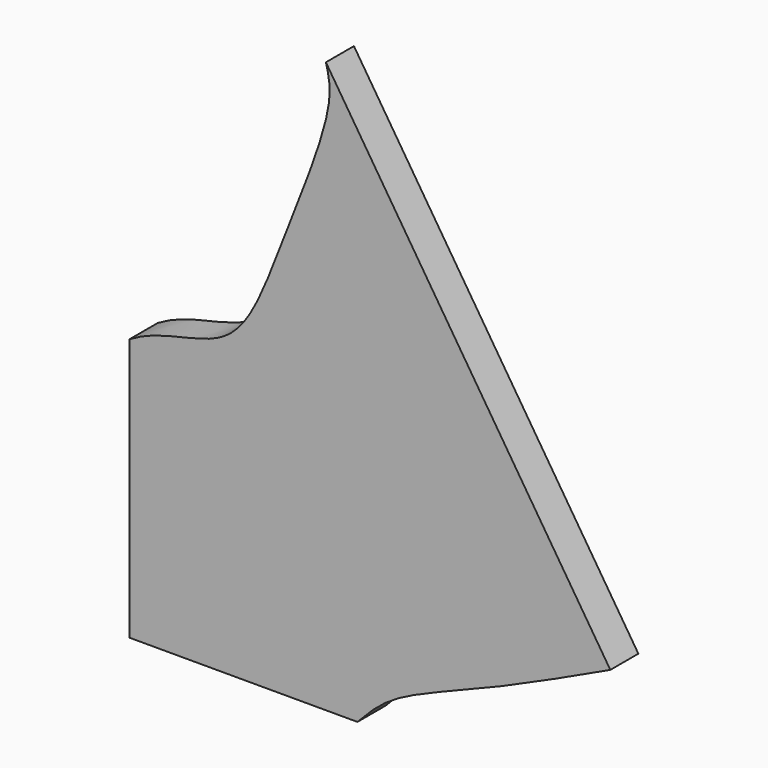
from build123d import *

# Parameters (mm, degrees)
F1_DEPTH = 3.175


with BuildPart() as f1:
    # F0 (on Front) → F1 (new body)
    with BuildSketch(Plane.XZ):
        with BuildLine():
            add(Edge.make_bspline(
                [(-20.6375, 23.8125), (-17.6571422595, 25.6223142176), (-10.8450796806, 25.1795959476), (-7.1748078318, 35.4791171286), (-1.9214702651, 48.0620381267), (-2.6241865328, 50.7769935487), (-2.858052263, 51.6777262092)],
                knots=[0, 0, 0, 0, 0.2575798929, 0.5294515062, 0.8453650322, 1, 1, 1, 1], degree=3))
            Line((-20.6375, 23.8125), (-20.6375, 0))
            Line((-20.6375, 0), (0, 0))
            add(Edge.make_bspline(
                [(0, 0), (0.8893205952, 0.9491258801), (3.0626301131, 3.268586736), (11.5381113986, 6.2544805412), (18.8722577145, 9.7014723809), (22.9074861854, 11.5979984403)],
                knots=[0, 0, 0, 0, 0.2375397147, 0.5804963088, 1, 1, 1, 1], degree=3))
            Line((22.9074861854, 11.5979984403), (-2.858052263, 51.6777262092))
        make_face()
    extrude(amount=F1_DEPTH)


solid = f1.part
